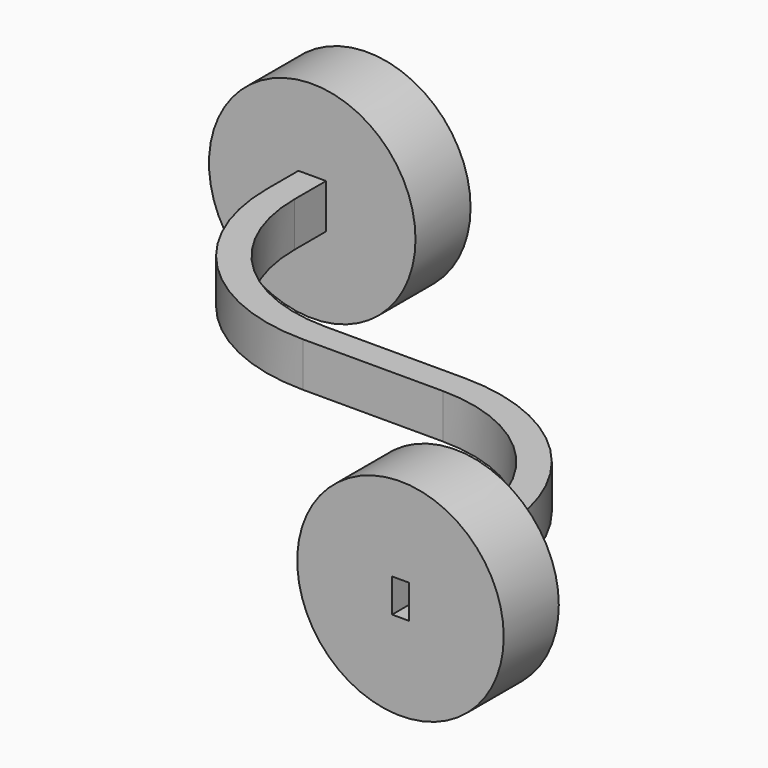
from build123d import *

# Parameters (mm, degrees)
F1_W     = 2.55
F1_H     = 4.1
F1_W_2   = 1.55
F1_H_2   = 3.1
F1_R     = 9.525
F5_DEPTH = 6.35
F3_R     = 9.525
F3_W     = 2.55
F3_H     = 4.1
F6_DEPTH = 6.35


with BuildPart() as f4:
    # F4: sweep along a path in F0
    with BuildLine(Plane.XY) as f4_path:
        Line((0, 0), (0, 10))
        ThreePointArc((0, 10), (-4.510556, 20.889444), (-15.4, 25.4))
        Line((-15.4, 25.4), (-21.85, 25.4))
        Line((-21.85, 25.4), (-28.3, 25.4))
        ThreePointArc((-28.3, 25.4), (-39.189444, 29.910556), (-43.7, 40.8))
        Line((-43.7, 40.8), (-43.7, 50.8))
    # F1 (on Front) → F4 (sweep)
    with BuildSketch(Plane.XZ):
        Rectangle(F1_W, F1_H)
        Rectangle(F1_W_2, F1_H_2, mode=Mode.SUBTRACT)
    sweep(path=f4_path.line)

    # F1 (on Front) → F5 (join)
    with BuildSketch(Plane.XZ):
        Circle(F1_R)
        Rectangle(F1_W, F1_H, mode=Mode.SUBTRACT)
    extrude(amount=-F5_DEPTH)

    # F3 (on offset) → F6 (join)
    with BuildSketch(Plane.XZ.offset(-50.8)):
        with Locations((-43.7, 0)):
            Circle(F3_R)
        with Locations((-43.7, 0)):
            Rectangle(F3_W, F3_H, mode=Mode.SUBTRACT)
    extrude(amount=F6_DEPTH)


solid = f4.part
